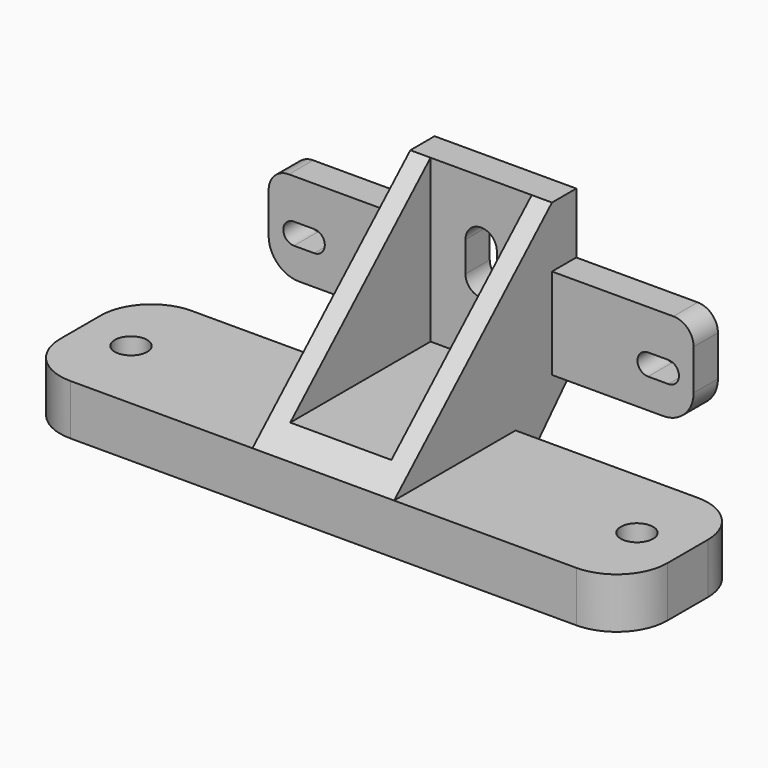
from build123d import *

# Parameters (mm, degrees)
SKETCH_R        = 1.6
PAD_DEPTH       = 5
PAD001_DEPTH    = 7
COPYSKETCH002_W = 10
COPYSKETCH002_H = 18
POCKET_DEPTH    = 19.5
PAD002_DEPTH    = 3
POCKET001_DEPTH = 5
SKETCH004_W     = 14
SKETCH004_H     = 6
POCKET002_DEPTH = 5
FILLET_R        = 2
FILLET001_R     = 2


with BuildPart() as part:
    # Sketch → Pad (new body)
    with BuildSketch(Plane.XY):
        with BuildLine():
            Line((-25, 7.5), (25, 7.5))
            ThreePointArc((30, 2.5), (28.535534, 6.035534), (25, 7.5))
            Line((30, 2.5), (30, -2.5))
            ThreePointArc((25, -7.5), (28.535534, -6.035534), (30, -2.5))
            Line((25, -7.5), (-25, -7.5))
            ThreePointArc((-30, -2.5), (-28.535534, -6.035534), (-25, -7.5))
            Line((-30, -2.5), (-30, 2.5))
            ThreePointArc((-25, 7.5), (-28.535534, 6.035534), (-30, 2.5))
        make_face()
        with Locations((-25, 0)):
            Circle(SKETCH_R, mode=Mode.SUBTRACT)
        with Locations((25, 0)):
            Circle(SKETCH_R, mode=Mode.SUBTRACT)
    extrude(amount=PAD_DEPTH)

    # Sketch001 → Pad001 (join, symmetric)
    with BuildSketch(Plane.YZ):
        Polygon((-7.5, 5), (7.5, 5), (7.5, 0), (15, 8), (15, 23), (12, 23), align=None)
    extrude(amount=PAD001_DEPTH, both=True)

    # CopySketch002 → Pocket (cut)
    with BuildSketch(Plane.XZ.offset(7.5)):
        with Locations((0, 16)):
            Rectangle(COPYSKETCH002_W, COPYSKETCH002_H)
    extrude(amount=-POCKET_DEPTH, mode=Mode.SUBTRACT)

    # Sketch003 (on Face18 of Pocket) → Pad002 (join)
    with BuildSketch(Plane(origin=(0, 15, 0), x_dir=(-1, 0, 0), z_dir=(0, 1, 0))):
        with BuildLine():
            Line((-18, 23), (18, 23))
            ThreePointArc((21, 20), (20.12132, 22.12132), (18, 23))
            Line((21, 20), (21, 11))
            ThreePointArc((18, 8), (20.12132, 8.87868), (21, 11))
            Line((18, 8), (-18, 8))
            ThreePointArc((-21, 11), (-20.12132, 8.87868), (-18, 8))
            Line((-21, 11), (-21, 20))
            ThreePointArc((-18, 23), (-20.12132, 22.12132), (-21, 20))
        make_face()
        with BuildLine():
            Line((-18.5, 13.05), (-16.5, 13.05))
            ThreePointArc((-16.5, 10.95), (-15.45, 12), (-16.5, 13.05))
            Line((-18.5, 10.95), (-16.5, 10.95))
            ThreePointArc((-18.5, 13.05), (-19.55, 12), (-18.5, 10.95))
        make_face(mode=Mode.SUBTRACT)
        with BuildLine():
            Line((16.5, 13.05), (18.5, 13.05))
            ThreePointArc((18.5, 10.95), (19.549988, 12), (18.5, 13.05))
            Line((16.5, 10.95), (18.5, 10.95))
            ThreePointArc((16.5, 13.05), (15.45, 12), (16.5, 10.95))
        make_face(mode=Mode.SUBTRACT)
        with BuildLine():
            Line((-1.55, 16.999987), (-1.55, 13.999987))
            ThreePointArc((-1.55, 13.999987), (0, 12.45), (1.55, 13.999987))
            Line((1.55, 16.999987), (1.55, 13.999987))
            ThreePointArc((1.55, 16.999987), (0, 18.549987), (-1.55, 16.999987))
        make_face(mode=Mode.SUBTRACT)
    extrude(amount=-PAD002_DEPTH)

    # Pad002 Face28 → Pocket001 (cut)
    with BuildSketch(Plane(origin=(0, 15, 15.499993), x_dir=(1, 0, 0), z_dir=(0, 1, 0))):
        with BuildLine():
            ThreePointArc((-1.55, -1.499993), (0, -3.049993), (1.55, -1.499993))
            Line((1.55, -1.499993), (1.55, 1.500007))
            ThreePointArc((1.55, 1.500007), (0, 3.049993), (-1.55, 1.500007))
            Line((-1.55, 1.500007), (-1.55, -1.499993))
        make_face()
    extrude(amount=-POCKET001_DEPTH, mode=Mode.SUBTRACT)

    # Sketch004 (on Face18 of Pad002) → Pocket002 (cut)
    with BuildSketch(Plane(origin=(0, 15, 0), x_dir=(-1, 0, 0), z_dir=(0, 1, 0))):
        with Locations((-14, 20)):
            Rectangle(SKETCH004_W, SKETCH004_H)
        with Locations((14, 20)):
            Rectangle(SKETCH004_W, SKETCH004_H)
    extrude(amount=-POCKET002_DEPTH, mode=Mode.SUBTRACT)

    # Fillet
    fillet_edges = [part.edges().sort_by_distance(p)[0] for p in [
        (21, 13.5, 17),
    ]]
    fillet(fillet_edges, radius=FILLET_R)

    # Fillet001
    fillet001_edges = [part.edges().sort_by_distance(p)[0] for p in [
        (-21, 13.5, 17),
    ]]
    fillet(fillet001_edges, radius=FILLET001_R)


solid = part.part
